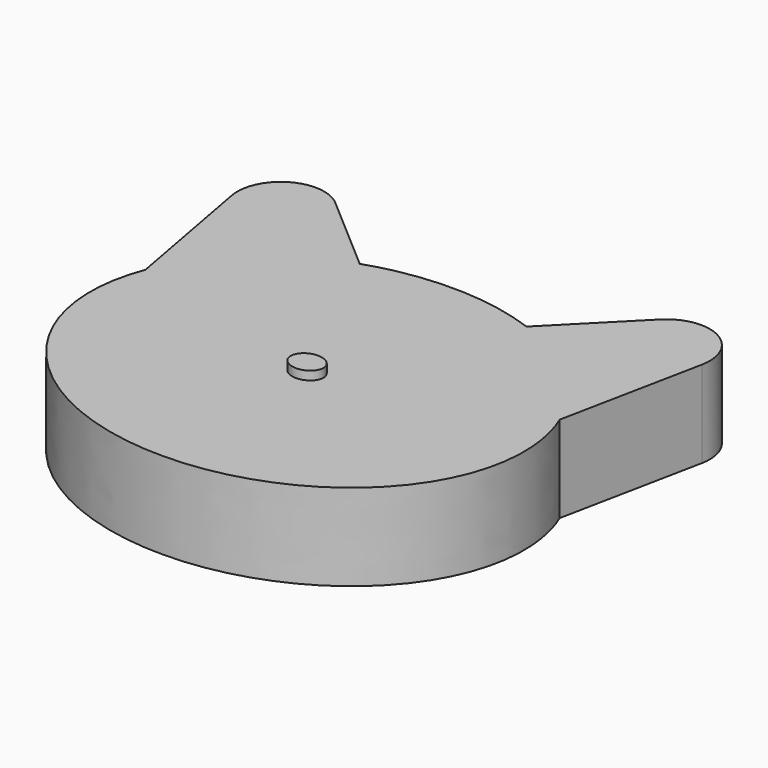
from build123d import *

# Parameters (mm, degrees)
F1_DEPTH = 10
F2_DEPTH = 11


with BuildPart() as f1:
    # F0 (on Top) → F1 (new body)
    with BuildSketch(Plane.XY):
        with BuildLine():
            add(Edge.make_bspline(
                [(-23.790544, 6.437249), (-32.776427, -16.883344), (-3.888213, -20.694751), (25, -24.506157), (25, 0)],
                knots=[2.829268, 2.829268, 2.829268, 4.556226, 4.556226, 6.283185, 6.283185, 6.283185], degree=2, weights=[1, 0.649797, 1, 0.649797, 1]))
            add(Edge.make_bspline(
                [(25, 0), (25, 3.562754), (23.594584, 6.925222)],
                knots=[0, 0, 0, 0.336902, 0.336902, 0.336902], degree=2, weights=[1, 0.985846, 1]))
            add(Edge.make_bspline(
                [(23.594584, 6.925222), (19.975762, 15.583283), (9.928744, 19.226648)],
                knots=[0.336902, 0.336902, 0.336902, 1.162387, 1.162387, 1.162387], degree=2, weights=[1, 0.916024, 1]))
            add(Edge.make_bspline(
                [(9.928744, 19.226648), (0.285784, 22.723488), (-9.442982, 19.39773)],
                knots=[1.162387, 1.162387, 1.162387, 1.958128, 1.958128, 1.958128], degree=2, weights=[1, 0.921888, 1]))
            add(Edge.make_bspline(
                [(-9.442982, 19.39773), (-20.215591, 15.715136), (-23.790544, 6.437249)],
                knots=[1.958128, 1.958128, 1.958128, 2.829268, 2.829268, 2.829268], degree=2, weights=[1, 0.90663, 1]))
        make_face()
        with BuildLine():
            add(Edge.make_bspline(
                [(1.888386, 0), (1.888386, 2.737699), (-0.944193, 1.36885), (-3.776772, 0), (-0.944193, -1.36885), (1.888386, -2.737699), (1.888386, 0)],
                knots=[0, 0, 0, 2.094395, 2.094395, 4.18879, 4.18879, 6.283185, 6.283185, 6.283185], degree=2, weights=[1, 0.5, 1, 0.5, 1, 0.5, 1]))
        make_face(mode=Mode.SUBTRACT)
        with BuildLine():
            Line((-26.780493, 22.632769), (-23.790544, 6.437249))
            add(Edge.make_bspline(
                [(-9.442982, 19.39773), (-20.215591, 15.715136), (-23.790544, 6.437249)],
                knots=[1.958128, 1.958128, 1.958128, 2.829268, 2.829268, 2.829268], degree=2, weights=[1, 0.90663, 1]))
            Line((-9.442982, 19.39773), (-18.590172, 27.32003))
            ThreePointArc((-18.590172, 27.32003), (-24.347103, 27.880108), (-26.780493, 22.632769))
        make_face()
        with BuildLine():
            add(Edge.make_bspline(
                [(23.594584, 6.925222), (19.975762, 15.583283), (9.928744, 19.226648)],
                knots=[0.336902, 0.336902, 0.336902, 1.162387, 1.162387, 1.162387], degree=2, weights=[1, 0.916024, 1]))
            Line((23.594584, 6.925222), (26.899845, 23.312925))
            ThreePointArc((26.899845, 23.312925), (24.351622, 28.713168), (18.447337, 27.821269))
            Line((18.447337, 27.821269), (9.928744, 19.226648))
        make_face()
    extrude(amount=F1_DEPTH)

    # F0 (on Top) → F2 (join)
    with BuildSketch(Plane.XY):
        with BuildLine():
            add(Edge.make_bspline(
                [(1.888386, 0), (1.888386, 2.737699), (-0.944193, 1.36885), (-3.776772, 0), (-0.944193, -1.36885), (1.888386, -2.737699), (1.888386, 0)],
                knots=[0, 0, 0, 2.094395, 2.094395, 4.18879, 4.18879, 6.283185, 6.283185, 6.283185], degree=2, weights=[1, 0.5, 1, 0.5, 1, 0.5, 1]))
        make_face()
    extrude(amount=F2_DEPTH)


solid = f1.part
